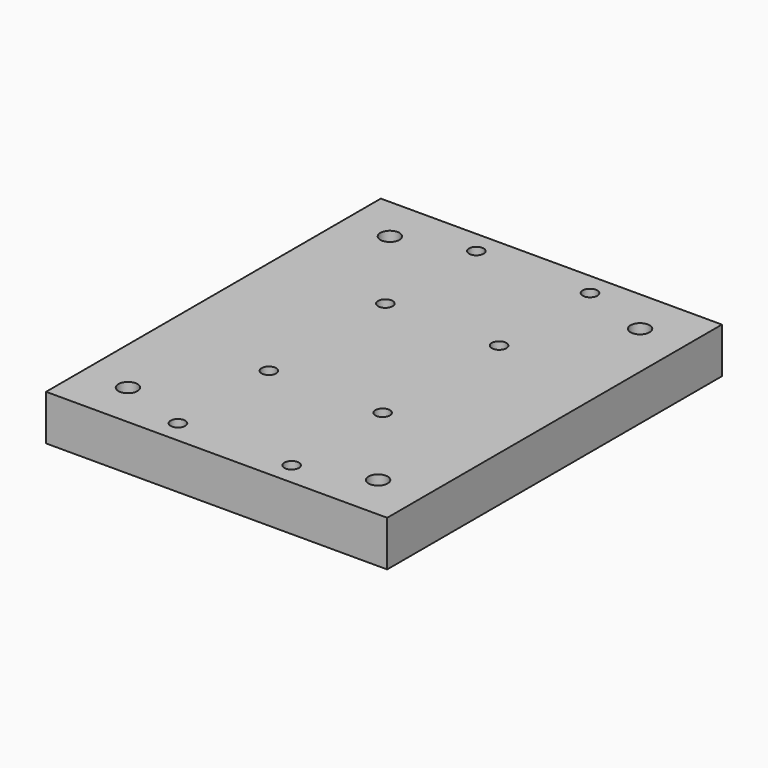
from build123d import *

# Parameters (mm, degrees)
F0_W     = 75
F0_H     = 92
F0_R     = 2.1
F0_R_2   = 1.6
F1_DEPTH = 10


with BuildPart() as f1:
    # F0 (on Top) → F1 (new body)
    with BuildSketch(Plane.XY):
        with Locations((-12.258104, -6.65414)):
            Rectangle(F0_W, F0_H)
        with Locations((-39.758104, -42.65414)):
            Circle(F0_R, mode=Mode.SUBTRACT)
        with Locations((-24.758104, -47.65414)):
            Circle(F0_R_2, mode=Mode.SUBTRACT)
        with Locations((-24.758104, -22.65414)):
            Circle(F0_R_2, mode=Mode.SUBTRACT)
        with Locations((0.241896, -47.65414)):
            Circle(F0_R_2, mode=Mode.SUBTRACT)
        with Locations((15.241896, -42.65414)):
            Circle(F0_R, mode=Mode.SUBTRACT)
        with Locations((0.241896, -22.65414)):
            Circle(F0_R_2, mode=Mode.SUBTRACT)
        with Locations((-24.758104, 9.34586)):
            Circle(F0_R_2, mode=Mode.SUBTRACT)
        with Locations((-39.758104, 29.34586)):
            Circle(F0_R, mode=Mode.SUBTRACT)
        with Locations((-24.758104, 34.34586)):
            Circle(F0_R_2, mode=Mode.SUBTRACT)
        with Locations((0.241896, 9.34586)):
            Circle(F0_R_2, mode=Mode.SUBTRACT)
        with Locations((0.241896, 34.34586)):
            Circle(F0_R_2, mode=Mode.SUBTRACT)
        with Locations((15.241896, 29.34586)):
            Circle(F0_R, mode=Mode.SUBTRACT)
    extrude(amount=F1_DEPTH)


solid = f1.part
